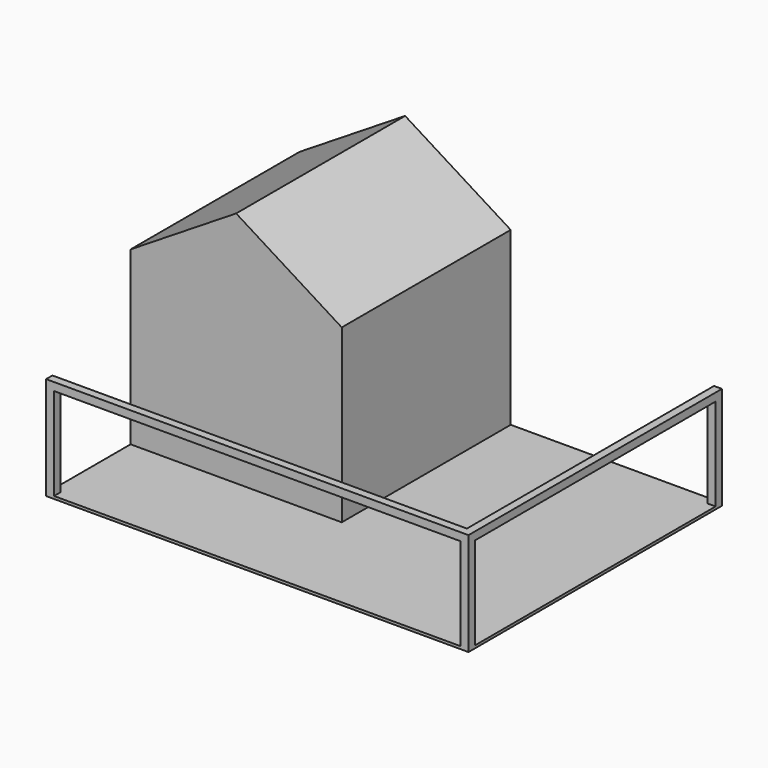
from build123d import *

# Parameters (mm, degrees)
F0_W     = 406.4
F0_H     = 304.8
F1_DEPTH = 2.54
F2_W     = 7.62
F2_H     = 7.62
F3_DEPTH = 88.9
F4_W     = 203.2
F4_H     = 203.2
F5_DEPTH = 165.1
F7_DEPTH = 203.2
F8_W     = 7.62
F8_H     = 297.18
F9_DEPTH = 7.62


with BuildPart() as f1:
    # F0 (on Top) → F1 (new body)
    with BuildSketch(Plane.XY):
        with Locations((-190.104838, 115.129152)):
            Rectangle(F0_W, F0_H)
    extrude(amount=F1_DEPTH)

    # F2 (on face) → F3 (join)
    with BuildSketch(Plane.XY.offset(2.54)):
        with Locations((-389.494838, -33.460848)):
            Rectangle(F2_W, F2_H)
        with Locations((9.285162, -33.460848)):
            Rectangle(F2_W, F2_H)
        with Locations((9.285162, 263.719152)):
            Rectangle(F2_W, F2_H)
    extrude(amount=F3_DEPTH)

    # F4 (on face) → F5 (join)
    with BuildSketch(Plane.XY.offset(2.54)):
        with Locations((-291.704838, 165.929152)):
            Rectangle(F4_W, F4_H)
    extrude(amount=F5_DEPTH)

    # F6 (on face) → F7 (join)
    with BuildSketch(Plane.XZ.offset(-64.329152)):
        Polygon((-291.704838, 231.14), (-393.304838, 167.64), (-291.704838, 167.64), align=None)
        Polygon((-291.704838, 231.14), (-291.704838, 167.64), (-190.104838, 167.64), align=None)
    extrude(amount=-F7_DEPTH)

    # F8 (on face) → F9 (join)
    with BuildSketch(Plane.XY.offset(91.44)):
        Polygon((-393.304838, -37.270848), (13.095162, -37.270848), (13.095162, -29.650848), (5.475162, -29.650848), (-393.304838, -29.650848), align=None)
        with Locations((9.285162, 118.939152)):
            Rectangle(F8_W, F8_H)
    extrude(amount=F9_DEPTH)


solid = f1.part
